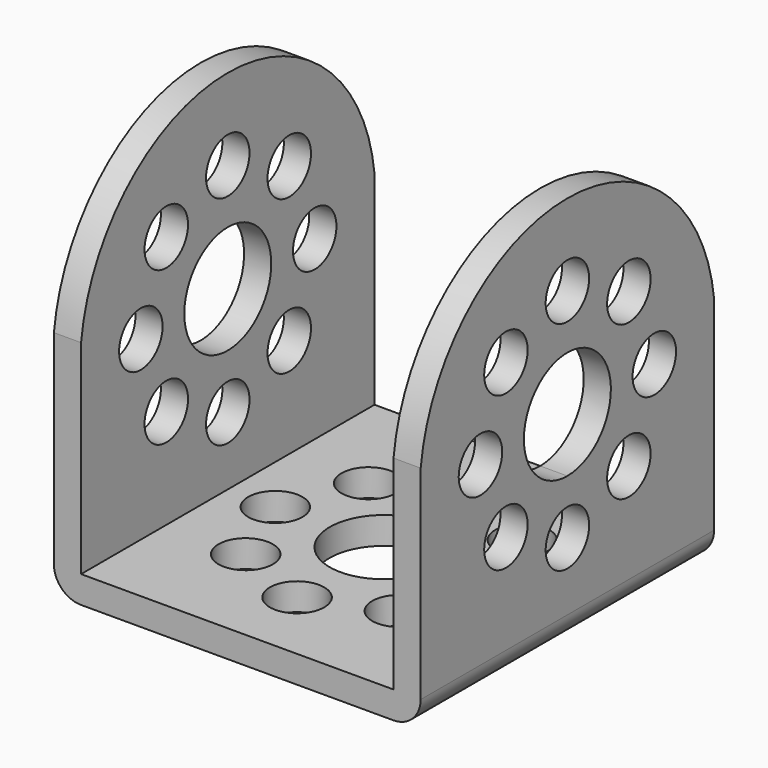
from build123d import *

# Parameters (mm, degrees)
F0_W     = 27
F0_H     = 27
F0_R     = 2
F0_R_2   = 4
F5_DEPTH = 2
F3_R     = 2
F3_R_2   = 4
F6_DEPTH = 2
F4_R     = 2
F7_DEPTH = 2
F8_R     = 2
F9_R     = 2


with BuildPart() as f5:
    # F0 (on Top) → F5 (new body)
    with BuildSketch(Plane.XY):
        Rectangle(F0_W, F0_H)
        with Locations((-5.656854, -5.656854)):
            Circle(F0_R, mode=Mode.SUBTRACT)
        with Locations((0, -8)):
            Circle(F0_R, mode=Mode.SUBTRACT)
        with Locations((5.656854, -5.656854)):
            Circle(F0_R, mode=Mode.SUBTRACT)
        with Locations((-8, 0)):
            Circle(F0_R, mode=Mode.SUBTRACT)
        with Locations((-5.656854, 5.656854)):
            Circle(F0_R, mode=Mode.SUBTRACT)
        Circle(F0_R_2, mode=Mode.SUBTRACT)
        with Locations((5.656854, 5.656854)):
            Circle(F0_R, mode=Mode.SUBTRACT)
        with Locations((8, 0)):
            Circle(F0_R, mode=Mode.SUBTRACT)
        with Locations((0, 8)):
            Circle(F0_R, mode=Mode.SUBTRACT)
    extrude(amount=F5_DEPTH)

    # F3 (on face) → F6 (join)
    with BuildSketch(Plane(origin=(-13.5, 0, 0), x_dir=(0, -1, 0), z_dir=(-1, 0, 0))):
        with BuildLine():
            Line((-13.5, 17), (-13.5, 0))
            Line((-13.5, 0), (13.5, 0))
            Line((13.5, 0), (13.5, 17))
            ThreePointArc((13.5, 17), (0, 29), (-13.5, 17))
        make_face()
        with Locations((-5.656854, 9.343146)):
            Circle(F3_R, mode=Mode.SUBTRACT)
        with Locations((0, 7)):
            Circle(F3_R, mode=Mode.SUBTRACT)
        with Locations((5.656854, 9.343146)):
            Circle(F3_R, mode=Mode.SUBTRACT)
        with Locations((-8, 15)):
            Circle(F3_R, mode=Mode.SUBTRACT)
        with Locations((-5.656854, 20.656854)):
            Circle(F3_R, mode=Mode.SUBTRACT)
        with Locations((0, 15)):
            Circle(F3_R_2, mode=Mode.SUBTRACT)
        with Locations((5.656854, 20.656854)):
            Circle(F3_R, mode=Mode.SUBTRACT)
        with Locations((8, 15)):
            Circle(F3_R, mode=Mode.SUBTRACT)
        with Locations((0, 23)):
            Circle(F3_R, mode=Mode.SUBTRACT)
    extrude(amount=-F6_DEPTH)

    # F4 (on face) → F7 (join)
    with BuildSketch(Plane(origin=(13.5, 0, 0), x_dir=(0, -1, 0), z_dir=(-1, 0, 0))):
        with BuildLine():
            Line((-13.5, 0), (13.5, 0))
            Line((13.5, 0), (13.5, 17))
            ThreePointArc((13.5, 17), (0, 29), (-13.5, 17))
            Line((-13.5, 17), (-13.5, 0))
        make_face()
        with Locations((-5.656854, 9.343146)):
            Circle(F4_R, mode=Mode.SUBTRACT)
        with BuildLine():
            ThreePointArc((2, 7), (-1.414214, 5.585786), (0, 9))
            ThreePointArc((0, 9), (1.414214, 8.414214), (2, 7))
        make_face(mode=Mode.SUBTRACT)
        with Locations((5.656854, 9.343146)):
            Circle(F4_R, mode=Mode.SUBTRACT)
        with Locations((-8, 15)):
            Circle(F4_R, mode=Mode.SUBTRACT)
        with Locations((-5.656854, 20.656854)):
            Circle(F4_R, mode=Mode.SUBTRACT)
        with BuildLine():
            ThreePointArc((4, 15), (2.828427, 12.171573), (0, 11))
            ThreePointArc((0, 11), (-2.828427, 17.828427), (4, 15))
        make_face(mode=Mode.SUBTRACT)
        with Locations((5.656854, 20.656854)):
            Circle(F4_R, mode=Mode.SUBTRACT)
        with Locations((8, 15)):
            Circle(F4_R, mode=Mode.SUBTRACT)
        with Locations((0, 23)):
            Circle(F4_R, mode=Mode.SUBTRACT)
    extrude(amount=F7_DEPTH)

    # F8
    f8_edges = [f5.edges().sort_by_distance(p)[0] for p in [
        (-13.5, 0, 0),
    ]]
    fillet(f8_edges, radius=F8_R)

    # F9
    f9_edges = [f5.edges().sort_by_distance(p)[0] for p in [
        (13.5, 0, 0),
    ]]
    fillet(f9_edges, radius=F9_R)


solid = f5.part
